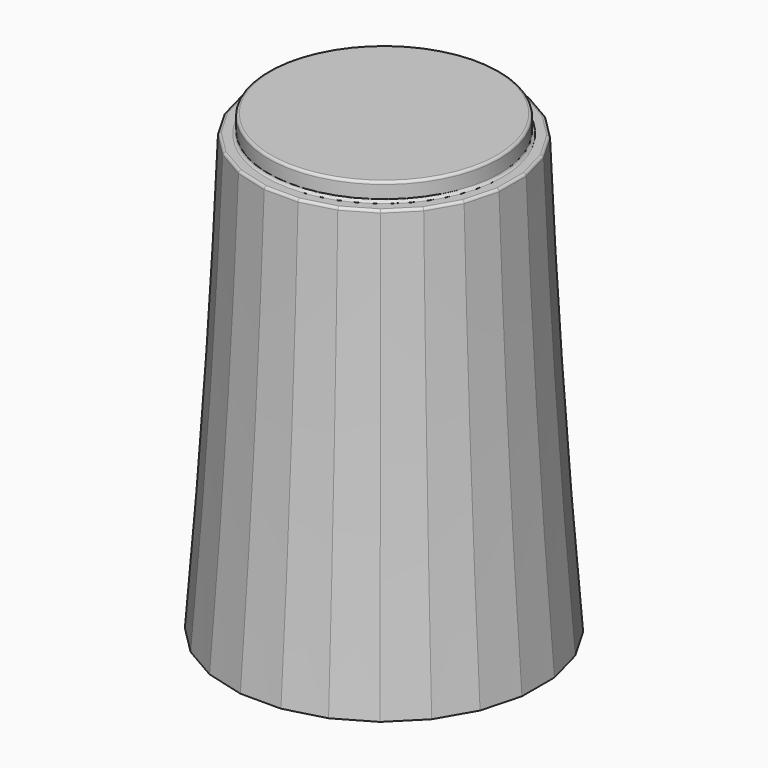
from build123d import *

# Parameters (mm, degrees)
SKETCH083_R     = 4.5
PAD020_DEPTH    = 0.7
SKETCH082_R     = 5
POCKET031_DEPTH = 1
SKETCH080_R     = 4.65
POCKET030_DEPTH = 1
POCKET032_DEPTH = 8
CHAMFER024_SIZE = 1.4
CHAMFER019_SIZE = 0.3
FILLET011_R     = 0.1


with BuildPart() as part:
    # Sketch085 → AdditiveLoft010 section 0
    with BuildSketch(Plane.XY):
        Polygon((-0.789915, 6), (-2.315914, 5.59111), (-3.684086, 4.801195), (-4.801195, 3.684086), (-5.59111, 2.315914), (-6, 0.789915), (-6, -0.789915), (-5.59111, -2.315914), (-4.801195, -3.684086), (-3.684086, -4.801195), (-2.315914, -5.59111), (-0.789915, -6), (0.789915, -6), (2.315914, -5.59111), (3.684086, -4.801195), (4.801195, -3.684086), (5.59111, -2.315914), (6, -0.789915), (6, 0.789915), (5.59111, 2.315914), (4.801195, 3.684086), (3.684086, 4.801195), (2.315914, 5.59111), (0.789915, 6), align=None)
    # Sketch084 → AdditiveLoft010 section 1
    with BuildSketch(Plane.XY.offset(7)):
        Polygon((-0.724089, 5.5), (-2.122921, 5.125184), (-3.377079, 4.401095), (-4.401095, 3.377079), (-5.125184, 2.122921), (-5.5, 0.724089), (-5.5, -0.724089), (-5.125184, -2.122921), (-4.401095, -3.377079), (-3.377079, -4.401095), (-2.122921, -5.125184), (-0.724089, -5.5), (0.724089, -5.5), (2.122921, -5.125184), (3.377079, -4.401095), (4.401095, -3.377079), (5.125184, -2.122921), (5.5, -0.724089), (5.5, 0.724089), (5.125184, 2.122921), (4.401095, 3.377079), (3.377079, 4.401095), (2.122921, 5.125184), (0.724089, 5.5), align=None)
    # Sketch086 → AdditiveLoft010 section 2
    with BuildSketch(Plane.XY.offset(17)):
        Polygon((-4.659258, 1.929928), (-5, 0.658262), (-5, -0.658262), (-4.659258, -1.929928), (-4.000996, -3.070072), (-3.070072, -4.000996), (-1.929928, -4.659258), (-0.658262, -5), (0.658262, -5), (1.929928, -4.659258), (3.070072, -4.000996), (4.000996, -3.070072), (4.659258, -1.929928), (5, -0.658262), (5, 0.658262), (4.659258, 1.929928), (4.000996, 3.070072), (3.070072, 4.000996), (1.929928, 4.659258), (0.658262, 5), (-0.658262, 5), (-1.929928, 4.659258), (-3.070072, 4.000996), (-4.000996, 3.070072), align=None)
    loft()

    # Sketch083 (on Face3 of AdditiveLoft010) → Pad020 (new body)
    with BuildSketch(Plane.XY.offset(17)):
        Circle(SKETCH083_R)
    extrude(amount=PAD020_DEPTH)

    # Sketch082 (on Face1 of Pad020) → Pocket031 (cut)
    with BuildSketch(Plane(origin=(0, 0, 0), x_dir=(1, 0, 0), z_dir=(0, 0, -1))):
        Circle(SKETCH082_R)
    extrude(amount=-POCKET031_DEPTH, mode=Mode.SUBTRACT)

    # Sketch080 (on Face28 of Pocket031) → Pocket030 (cut)
    with BuildSketch(Plane(origin=(0, 0, 1), x_dir=(1, 0, 0), z_dir=(0, 0, -1))):
        Circle(SKETCH080_R)
    extrude(amount=-POCKET030_DEPTH, mode=Mode.SUBTRACT)

    # Sketch081 (on Face32 of Pocket030) → Pocket032 (cut)
    with BuildSketch(Plane(origin=(0, 0, 2), x_dir=(1, 0, 0), z_dir=(0, 0, -1))):
        with BuildLine():
            ThreePointArc((-1.741757, 2.442598), (0, -3), (1.741757, 2.442598))
            Line((-1.741757, 2.442598), (1.741757, 2.442598))
        make_face()
    extrude(amount=-POCKET032_DEPTH, mode=Mode.SUBTRACT)

    # Chamfer024
    chamfer024_edges = [part.edges().sort_by_distance(p)[0] for p in [
        (0, 3, 2),
        (0, -2.442598, 2),
    ]]
    chamfer(chamfer024_edges, length=CHAMFER024_SIZE)

    # Chamfer019
    chamfer019_edges = [part.edges().sort_by_distance(p)[0] for p in [
        (-4.65, 0, 1),
    ]]
    chamfer(chamfer019_edges, length=CHAMFER019_SIZE)

    # Fillet011
    fillet011_edges = [part.edges().sort_by_distance(p)[0] for p in [
        (-4.5, 0, 17.7),
        (-4.829629, 1.294095, 17),
        (-4.330127, 2.5, 17),
        (-5, 0, 17),
        (-3.535534, 3.535534, 17),
        (-4.829629, -1.294095, 17),
        (-2.5, 4.330127, 17),
        (-4.330127, -2.5, 17),
        (-1.294095, 4.829629, 17),
        (-3.535534, -3.535534, 17),
        (0, 5, 17),
        (-2.5, -4.330127, 17),
        (1.294095, 4.829629, 17),
        (-1.294095, -4.829629, 17),
        (2.5, 4.330127, 17),
        (0, -5, 17),
        (3.535534, 3.535534, 17),
        (1.294095, -4.829629, 17),
        (4.330127, 2.5, 17),
        (2.5, -4.330127, 17),
        (4.829629, 1.294095, 17),
        (3.535534, -3.535534, 17),
        (5, 0, 17),
        (4.330127, -2.5, 17),
        (4.829629, -1.294095, 17),
        (-4.5, 0, 17),
    ]]
    fillet(fillet011_edges, radius=FILLET011_R)


solid = part.part
